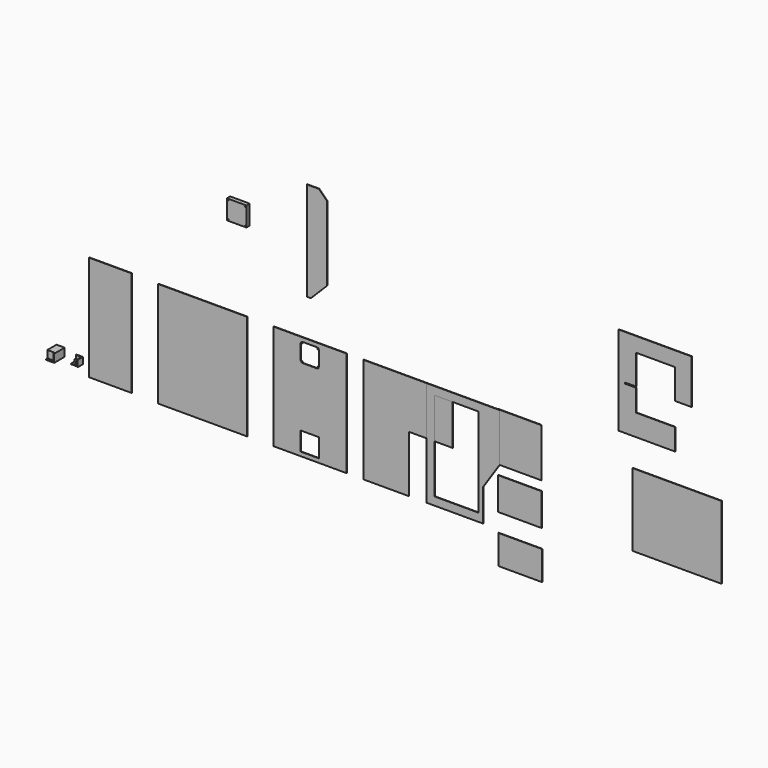
from build123d import *

# Parameters (mm, degrees)
F0_W      = 40
F0_H      = 40
F1_DEPTH  = 40
F2_W      = 35
F2_H      = 35
F3_DEPTH  = 20
F4_W      = 35
F4_H      = 35
F5_DEPTH  = 3
F6_W      = 26.5
F6_H      = 26.5
F7_DEPTH  = 12
F8_W      = 265
F8_H      = 650
F9_DEPTH  = 3
F10_W     = 550
F10_H     = 650
F11_DEPTH = 3
F12_W     = 450
F12_H     = 650
F12_W_2   = 115
F12_H_2   = 115
F12_R     = 2.2
F13_DEPTH = 3
F15_DEPTH = 3
F16_W     = 270
F16_H     = 550
F17_DEPTH = 3
F18_W     = 13.1645835346
F18_H     = 300
F18_W_2   = 256.8354164654
F19_DEPTH = 3
F20_W     = 270
F20_H     = 200
F21_DEPTH = 3
F22_W     = 270
F22_H     = 180
F23_DEPTH = 3
F24_W     = 550
F24_H     = 450
F25_DEPTH = 3
F27_DEPTH = 3
F28_W     = 50
F28_H     = 50
F29_DEPTH = 81
F30_W     = 45
F30_H     = 45
F31_DEPTH = 10
F32_W     = 120
F32_H     = 120
F32_R     = 2.2
F33_DEPTH = 25
F35_DEPTH = 3


with BuildPart() as f1:
    # F0 (on Front) → F1 (new body)
    with BuildSketch(Plane.XZ):
        with Locations((-102.8566464484, 80.7153475598)):
            Rectangle(F0_W, F0_H)
    extrude(amount=F1_DEPTH)

    # F2 (on face) → F3 (cut)
    with BuildSketch(Plane.XY.offset(100.7153475598)):
        with Locations((-105.3566464484, -22.5)):
            Rectangle(F2_W, F2_H)
    extrude(amount=-F3_DEPTH, mode=Mode.SUBTRACT)

    # F4 (on face) → F5 (cut)
    with BuildSketch(Plane(origin=(0, 0, 60.7153475598), x_dir=(1, 0, 0), z_dir=(0, 0, -1))):
        with Locations((-105.3566464484, 22.5)):
            Rectangle(F4_W, F4_H)
    extrude(amount=-F5_DEPTH, mode=Mode.SUBTRACT)

    # F6 (on face) → F7 (cut)
    with BuildSketch(Plane.XY.offset(80.7153475598)):
        with Locations((-109.6066464484, -26.75)):
            Rectangle(F6_W, F6_H)
        Polygon((-91.3566464484, -8.5), (-91.3566464484, -40), (-87.8566464484, -40), (-87.8566464484, -5), (-91.3566464484, -5), (-91.9287055731, -5), (-122.8566464484, -5), (-122.8566464484, -8.5), align=None)
    extrude(amount=-F7_DEPTH, mode=Mode.SUBTRACT)


with BuildPart() as f9:
    # F8 (on Front) → F9 (new body)
    with BuildSketch(Plane.XZ):
        with Locations((88.4266790748, 329.3526981026)):
            Rectangle(F8_W, F8_H)
    extrude(amount=F9_DEPTH)


with BuildPart() as f11:
    # F10 (on Front) → F11 (new body)
    with BuildSketch(Plane.XZ):
        with Locations((658.8658335028, 325)):
            Rectangle(F10_W, F10_H)
    extrude(amount=F11_DEPTH)


with BuildPart() as f13:
    # F12 (on Front) → F13 (new body)
    with BuildSketch(Plane.XZ):
        with Locations((1322.1548128128, 325)):
            Rectangle(F12_W, F12_H)
        with Locations((1319.6548128128, 82.5)):
            Rectangle(F12_W_2, F12_H_2, mode=Mode.SUBTRACT)
        with Locations((1267.1548128128, 515)):
            Circle(F12_R, mode=Mode.SUBTRACT)
        Polygon((1262.1548128128, 520), (1262.1548128128, 615), (1272.1548128128, 615), (1272.1548128128, 625), (1367.1548128128, 625), (1367.1548128128, 615), (1377.1548128128, 615), (1377.1548128128, 520), (1367.1548128128, 520), (1367.1548128128, 510), (1272.1548128128, 510), (1272.1548128128, 520), align=None, mode=Mode.SUBTRACT)
        with Locations((1267.1548128128, 620)):
            Circle(F12_R, mode=Mode.SUBTRACT)
        with Locations((1372.1548128128, 515)):
            Circle(F12_R, mode=Mode.SUBTRACT)
        with Locations((1372.1548128128, 620)):
            Circle(F12_R, mode=Mode.SUBTRACT)
    extrude(amount=F13_DEPTH)


with BuildPart() as f15:
    # F14 (on Front) → F15 (new body)
    with BuildSketch(Plane.XZ):
        Polygon((1651.3492820922, 650), (1651.3492820922, 0), (1931.3492820922, 0), (1931.3492820922, 350), (2201.3492820922, 350), (2201.3492820922, 650), align=None)
    extrude(amount=F15_DEPTH)


with BuildPart() as f17:
    # F16 (on Front) → F17 (new body)
    with BuildSketch(Plane.XZ):
        Polygon((2040.4041732257, 650), (2040.4041732257, 0), (2390.4041732257, 0), (2390.4041732257, 200), (2490.4041732257, 350), (2490.4041732257, 650), (2390.4041732257, 650), align=None)
        with Locations((2225.4041732257, 325)):
            Rectangle(F16_W, F16_H, mode=Mode.SUBTRACT)
    extrude(amount=F17_DEPTH)


with BuildPart() as f19:
    # F18 (on face) → F19 (new body)
    with BuildSketch(Plane(origin=(0, 0, 0), x_dir=(-1, 0, 0), z_dir=(0, 1, 0))):
        with Locations((-2483.8218814584, 500)):
            Rectangle(F18_W, F18_H)
        with Locations((-2618.8218814584, 500)):
            Rectangle(F18_W_2, F18_H)
    extrude(amount=F19_DEPTH)


with BuildPart() as f21:
    # F20 (on face) → F21 (new body)
    with BuildSketch(Plane(origin=(0, 3, 0), x_dir=(-1, 0, 0), z_dir=(0, 1, 0))):
        with Locations((-2612.2395896912, 189.3829244978)):
            Rectangle(F20_W, F20_H)
    extrude(amount=F21_DEPTH)


with BuildPart() as f23:
    # F22 (on face) → F23 (new body)
    with BuildSketch(Plane(origin=(0, 6, 0), x_dir=(-1, 0, 0), z_dir=(0, 1, 0))):
        with Locations((-2612.2395896912, -115.965121549)):
            Rectangle(F22_W, F22_H)
    extrude(amount=F23_DEPTH)


with BuildPart() as f25:
    # F24 (on Front) → F25 (new body)
    with BuildSketch(Plane.XZ):
        with Locations((3587.194108963, 376.6544529481)):
            Rectangle(F24_W, F24_H)
    extrude(amount=F25_DEPTH)


with BuildPart() as f27:
    # F26 (on face) → F27 (new body)
    with BuildSketch(Plane.XZ.offset(3)):
        Polygon((3678.8215652645, 1328.9465069771), (3228.8215652645, 1328.9465069771), (3228.8215652645, 778.9465069771), (3578.8215652645, 778.9465069771), (3578.8215652645, 911.9465069771), (3335.8215652645, 911.9465069771), (3335.8215652645, 1047.4465069771), (3269.8215652645, 1047.4465069771), (3269.8215652645, 1053.9465069771), (3335.8215652645, 1053.9465069771), (3335.8215652645, 1237.9465069771), (3578.8215652645, 1237.9465069771), (3578.8215652645, 1053.9465069771), (3678.8215652645, 1053.9465069771), align=None)
    extrude(amount=F27_DEPTH)


with BuildPart() as f29:
    # F28 (on Front) → F29 (new body)
    with BuildSketch(Plane.XZ):
        with Locations((-220.404677093, 89.3433275744)):
            Rectangle(F28_W, F28_H)
    extrude(amount=F29_DEPTH)

    # F30 (on face) → F31 (cut)
    with BuildSketch(Plane.XZ.offset(81)):
        with Locations((-222.904677093, 91.8433275744)):
            Rectangle(F30_W, F30_H)
    extrude(amount=-F31_DEPTH, mode=Mode.SUBTRACT)


with BuildPart() as f33:
    # F32 (on Front) → F33 (new body)
    with BuildSketch(Plane.XZ):
        with Locations((886.5295350552, 1208.6237928141)):
            Rectangle(F32_W, F32_H)
        with Locations((834.0295350552, 1156.1237928141)):
            Circle(F32_R, mode=Mode.SUBTRACT)
        with Locations((939.0295350552, 1156.1237928141)):
            Circle(F32_R, mode=Mode.SUBTRACT)
        with Locations((834.0295350552, 1261.1237928141)):
            Circle(F32_R, mode=Mode.SUBTRACT)
        with Locations((939.0295350552, 1261.1237928141)):
            Circle(F32_R, mode=Mode.SUBTRACT)
    extrude(amount=F33_DEPTH)


with BuildPart() as f35:
    # F34 (on Front) → F35 (new body)
    with BuildSketch(Plane.XZ):
        Polygon((1301.8677513387, 1489.4693756618), (1301.8677513387, 879.4693756618), (1326.8677513387, 879.4693756618), (1426.8677513387, 979.4693756618), (1426.8677513387, 1439.4693756618), (1376.8677513387, 1489.4693756618), align=None)
    extrude(amount=F35_DEPTH)


solid = Compound([f1.part, f9.part, f11.part, f13.part, f15.part, f17.part, f19.part, f21.part, f23.part, f25.part, f27.part, f29.part, f33.part, f35.part])
